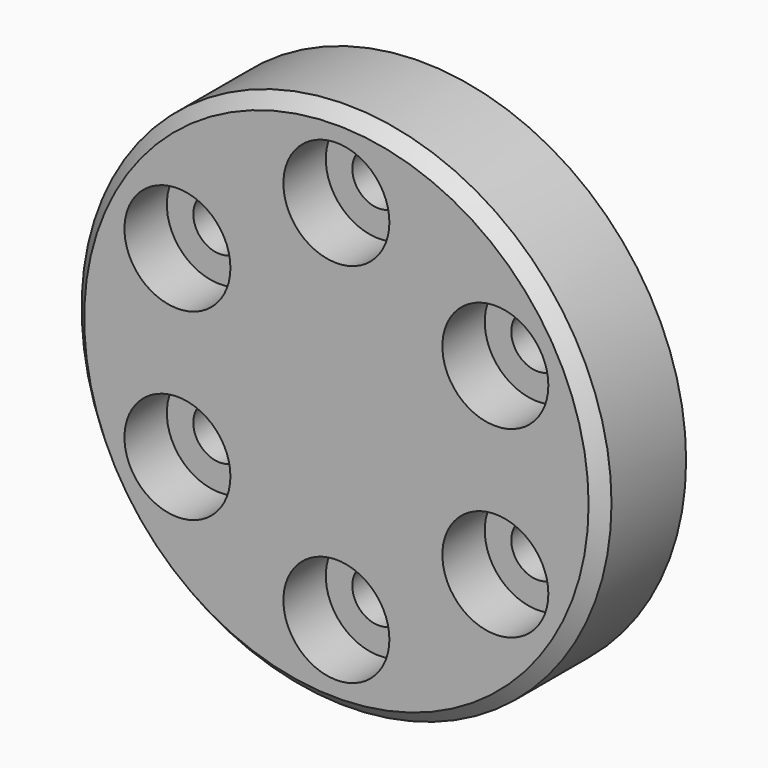
from build123d import *

# Parameters (mm, degrees)
F0_R           = 31.75
F1_DEPTH       = 6.35
F3_D           = 6.35
F3_CBORE_D     = 12.7
F3_CBORE_DEPTH = 6.35
F4_SIZE        = 1.524


with BuildPart() as f1:
    # F0 (on Front) → F1 (new body, symmetric)
    with BuildSketch(Plane.XZ):
        Circle(F0_R)
    extrude(amount=F1_DEPTH, both=True)

    # F3 (through all)
    with Locations(Plane.XZ.offset(6.35)):
        with Locations((-19.05, 10.998523), (0, 21.997045), (19.05, 10.998523), (19.05, -10.998523), (0, -21.997045), (-19.05, -10.998523)):
            CounterBoreHole(F3_D / 2, F3_CBORE_D / 2, F3_CBORE_DEPTH)

    # F4
    f4_edges = [f1.edges().sort_by_distance(p)[0] for p in [
        (-31.75, -6.35, 0),
    ]]
    chamfer(f4_edges, length=F4_SIZE)


solid = f1.part
